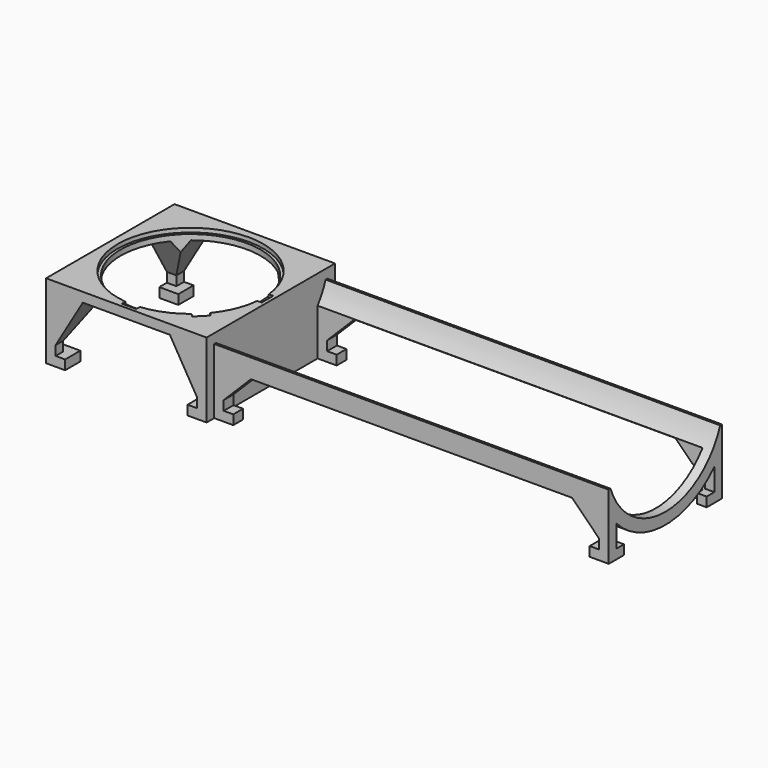
from build123d import *

# Parameters (mm, degrees)
F0_W      = 118
F0_H      = 118
F1_DEPTH  = 55
F3_DEPTH  = 3
F4_R      = 51.5
F5_DEPTH  = 100
F7_DEPTH  = 150
F9_DEPTH  = 111
F11_DEPTH = 290
F12_W     = 283
F12_H     = 86
F13_DEPTH = 50
F15_DEPTH = 150
F17_DEPTH = 25


with BuildPart() as f1:
    # F0 (on Top) → F1 (new body)
    with BuildSketch(Plane.XY):
        with Locations((-59, 59)):
            Rectangle(F0_W, F0_H)
    extrude(amount=F1_DEPTH)

    # F2 (on face) → F3 (cut)
    with BuildSketch(Plane.XY.offset(55)):
        with BuildLine():
            Line((-59, 59), (-5.5, 59))
            ThreePointArc((-5.5, 59), (-5.565833, 61.653265), (-5.763171, 64.3))
            ThreePointArc((-5.763171, 64.3), (-96.830213, 96.830213), (-64.3, 5.763171))
            ThreePointArc((-64.3, 5.763171), (-61.653265, 5.565833), (-59, 5.5))
            Line((-59, 5.5), (-59, 59))
        make_face()
        with BuildLine():
            ThreePointArc((-59, 5.5), (-61.653265, 5.565833), (-64.3, 5.763171))
            Line((-64.3, 5.763171), (-64.3, 2.463171))
            Line((-64.3, 2.463171), (-53.7, 2.463171))
            Line((-53.7, 2.463171), (-53.7, 5.763171))
            ThreePointArc((-53.7, 5.763171), (-56.346735, 5.565833), (-59, 5.5))
        make_face()
        with BuildLine():
            Line((-21.169787, 21.169787), (-59, 59))
            Line((-59, 59), (-59, 5.5))
            ThreePointArc((-59, 5.5), (-56.346735, 5.565833), (-53.7, 5.763171))
            ThreePointArc((-53.7, 5.763171), (-38.526436, 9.572445), (-25.103543, 17.608211))
            ThreePointArc((-25.103543, 17.608211), (-23.09248, 19.340197), (-21.169787, 21.169787))
        make_face()
        with BuildLine():
            Line((-15.274759, 22.770091), (-17.608211, 25.103543))
            ThreePointArc((-17.608211, 25.103543), (-19.340197, 23.09248), (-21.169787, 21.169787))
            ThreePointArc((-21.169787, 21.169787), (-23.09248, 19.340197), (-25.103543, 17.608211))
            Line((-25.103543, 17.608211), (-22.770091, 15.274759))
            Line((-22.770091, 15.274759), (-15.274759, 22.770091))
        make_face()
        with BuildLine():
            ThreePointArc((-5.763171, 53.7), (-5.565833, 56.346735), (-5.5, 59))
            Line((-5.5, 59), (-59, 59))
            Line((-59, 59), (-21.169787, 21.169787))
            ThreePointArc((-21.169787, 21.169787), (-19.340197, 23.09248), (-17.608211, 25.103543))
            ThreePointArc((-17.608211, 25.103543), (-9.572445, 38.526436), (-5.763171, 53.7))
        make_face()
        with BuildLine():
            ThreePointArc((-5.763171, 64.3), (-5.565833, 61.653265), (-5.5, 59))
            ThreePointArc((-5.5, 59), (-5.565833, 56.346735), (-5.763171, 53.7))
            Line((-5.763171, 53.7), (-2.463171, 53.7))
            Line((-2.463171, 53.7), (-2.463171, 64.3))
            Line((-2.463171, 64.3), (-5.763171, 64.3))
        make_face()
    extrude(amount=-F3_DEPTH, mode=Mode.SUBTRACT)

    # F4 (on face) → F5 (cut)
    with BuildSketch(Plane.XY.offset(52)):
        with Locations((-59, 59)):
            Circle(F4_R)
    extrude(amount=-F5_DEPTH, mode=Mode.SUBTRACT)

    # F6 (on face) → F7 (cut)
    with BuildSketch(Plane.XZ):
        Polygon((-104, 7), (-104, 0), (-14, 0), (-14, 7), (-7, 7), (-7, 14), (-27, 48), (-91, 48), (-111, 14), (-111, 7), align=None)
    extrude(amount=-F7_DEPTH, mode=Mode.SUBTRACT)

    # F8 (on face) → F9 (cut)
    with BuildSketch(Plane(origin=(-118, 0, 0), x_dir=(0, -1, 0), z_dir=(-1, 0, 0))):
        Polygon((-104, 7), (-104, 0), (-14, 0), (-14, 7), (-7, 7), (-7, 14), (-27, 48), (-91, 48), (-111, 14), (-111, 7), align=None)
    extrude(amount=-F9_DEPTH, mode=Mode.SUBTRACT)

    # F10 (on face) → F11 (join)
    with BuildSketch(Plane.YZ):
        with BuildLine():
            Line((7, 48), (7, 0))
            Line((7, 0), (111, 0))
            Line((111, 0), (111, 48))
            Line((111, 48), (109.381048, 48))
            ThreePointArc((109.381048, 48), (59, 12.5), (8.618952, 48))
            Line((8.618952, 48), (7, 48))
        make_face()
    extrude(amount=F11_DEPTH)

    # F12 (on face) → F13 (cut)
    with BuildSketch(Plane(origin=(0, 0, 0), x_dir=(1, 0, 0), z_dir=(0, 0, -1))):
        with Locations((141.5, -59)):
            Rectangle(F12_W, F12_H)
    extrude(amount=-F13_DEPTH, mode=Mode.SUBTRACT)

    # F14 (on face) → F15 (cut)
    with BuildSketch(Plane.XZ.offset(-7)):
        Polygon((14, 7), (14, 0), (276, 0), (276, 7), (283, 7), (283, 14), (263, 34), (27, 34), (7, 14), (7, 7), align=None)
    extrude(amount=-F15_DEPTH, mode=Mode.SUBTRACT)

    # F16 (on face) → F17 (cut)
    with BuildSketch(Plane.YZ.offset(290)):
        with BuildLine():
            ThreePointArc((104, 23.350264), (59, 4), (14, 23.350264))
            Line((14, 23.350264), (14, 7))
            Line((14, 7), (21, 7))
            Line((21, 7), (21, 0))
            Line((21, 0), (97, 0))
            Line((97, 0), (97, 7))
            Line((97, 7), (104, 7))
            Line((104, 7), (104, 23.350264))
        make_face()
    extrude(amount=-F17_DEPTH, mode=Mode.SUBTRACT)


solid = f1.part
